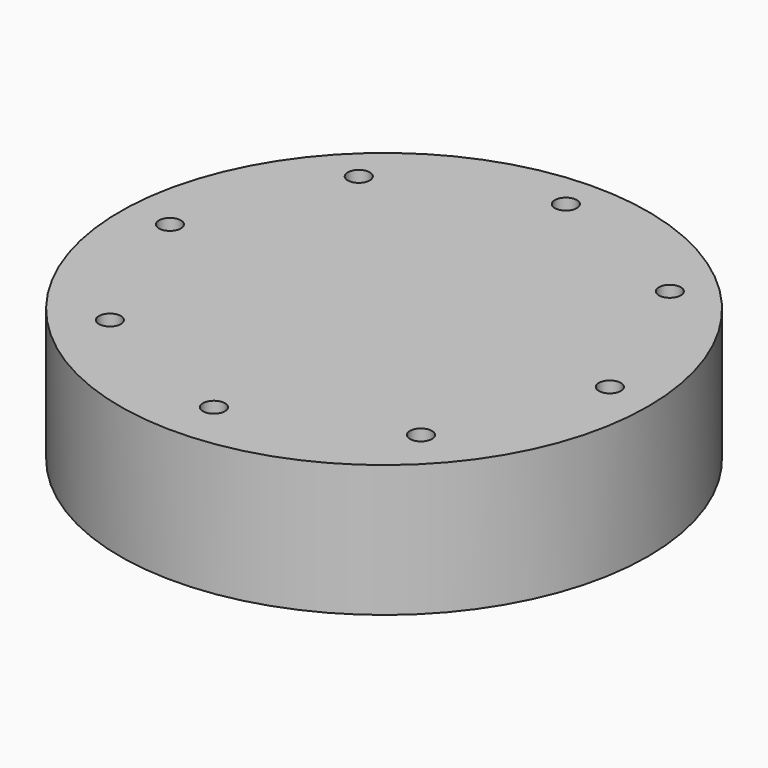
from build123d import *

# Parameters (mm, degrees)
F0_R     = 76.2
F0_R_2   = 3.175
F1_DEPTH = 38.1


with BuildPart() as f1:
    # F0 (on Top) → F1 (new body)
    with BuildSketch(Plane.XY):
        Circle(F0_R)
        with Locations((-44.901281, -42.811689)):
            Circle(F0_R_2, mode=Mode.SUBTRACT)
        with Locations((0, -61.410408)):
            Circle(F0_R_2, mode=Mode.SUBTRACT)
        with Locations((44.901281, -42.811689)):
            Circle(F0_R_2, mode=Mode.SUBTRACT)
        with Locations((-63.5, 2.089592)):
            Circle(F0_R_2, mode=Mode.SUBTRACT)
        with Locations((-44.901281, 46.990872)):
            Circle(F0_R_2, mode=Mode.SUBTRACT)
        with Locations((63.5, 2.089592)):
            Circle(F0_R_2, mode=Mode.SUBTRACT)
        with Locations((0, 65.589592)):
            Circle(F0_R_2, mode=Mode.SUBTRACT)
        with Locations((44.901281, 46.990872)):
            Circle(F0_R_2, mode=Mode.SUBTRACT)
    extrude(amount=F1_DEPTH)


solid = f1.part
